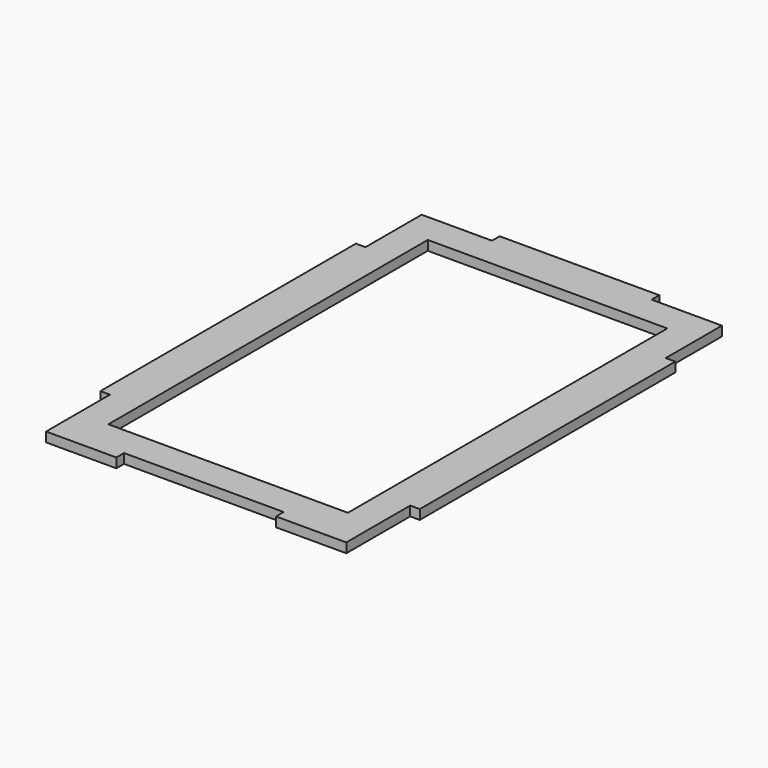
from build123d import *

# Parameters (mm, degrees)
F0_W     = 150
F0_H     = 250
F1_DEPTH = 6


with BuildPart() as f1:
    # F0 (on Top) → F1 (new body)
    with BuildSketch(Plane.XY):
        Polygon((-34.618986, 212.4047), (-78.618986, 212.4047), (-78.618986, 168.4047), (-84.618986, 168.4047), (-84.618986, -31.5953), (-78.618986, -31.5953), (-78.618986, -81.5953), (-34.618986, -81.5953), (-34.618986, -75.5953), (65.381014, -75.5953), (65.381014, -81.5953), (109.381014, -81.5953), (109.381014, -31.5953), (115.381014, -31.5953), (115.381014, 168.4047), (109.381014, 168.4047), (109.381014, 212.4047), (65.381014, 212.4047), (65.381014, 218.4047), (-34.618986, 218.4047), align=None)
        with Locations((15.381014, 68.4047)):
            Rectangle(F0_W, F0_H, mode=Mode.SUBTRACT)
    extrude(amount=F1_DEPTH)


solid = f1.part
